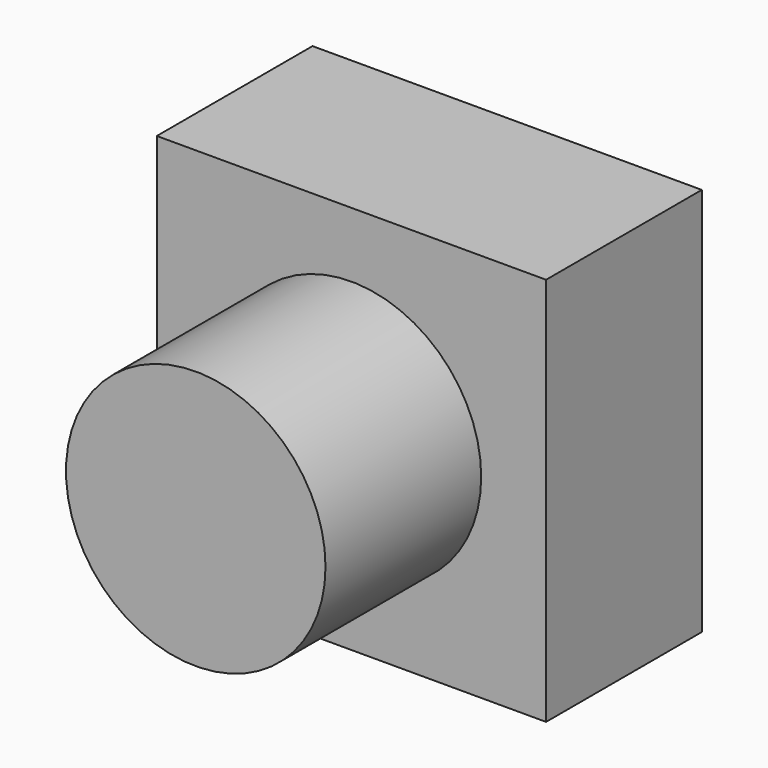
from build123d import *

# Parameters (mm, degrees)
F0_R     = 2
F1_DEPTH = 6
F0_W     = 6
F0_H     = 6
F2_DEPTH = 3


with BuildPart() as f1:
    # F0 (on Front) → F1 (new body)
    with BuildSketch(Plane.XZ):
        with Locations((-3, 3)):
            Circle(F0_R)
    extrude(amount=F1_DEPTH)


with BuildPart() as f2:
    # F0 (on Front) → F2 (new body)
    with BuildSketch(Plane.XZ):
        with Locations((-3, 3)):
            Rectangle(F0_W, F0_H)
        with Locations((-3, 3)):
            Circle(F0_R, mode=Mode.SUBTRACT)
    extrude(amount=F2_DEPTH)


solid = Compound([f1.part, f2.part])
